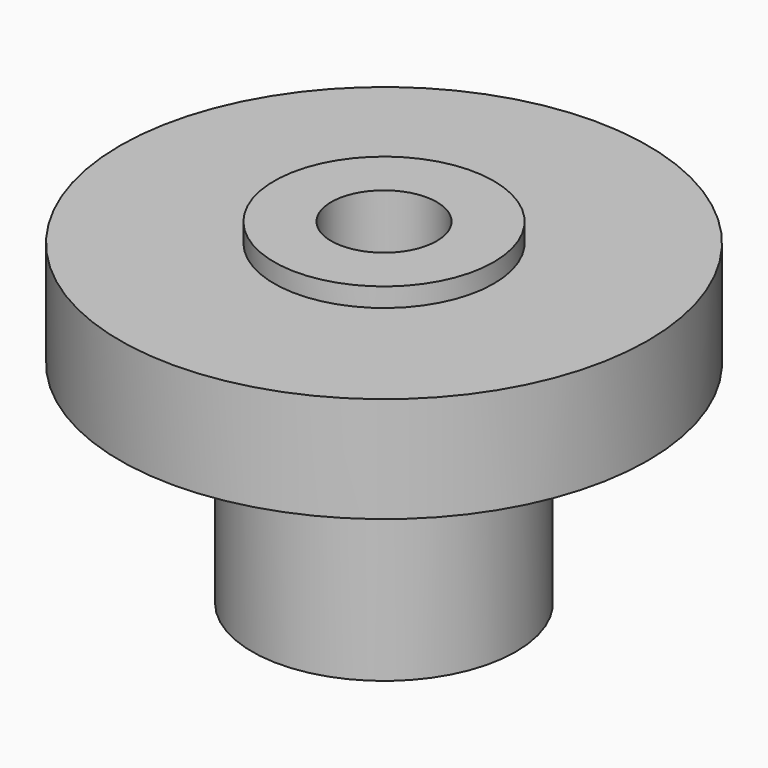
from build123d import *

# Parameters (mm, degrees)
SKETCH019_R   = 6.25
PAD007_DEPTH  = 10
SKETCH020_R   = 12.5
PAD008_DEPTH  = 5
SKETCH021_R   = 5.2
PAD009_DEPTH  = 0.9
SKETCH022_R   = 2.5
HOLE006_DEPTH = 25


with BuildPart() as part:
    # Sketch019 → Pad007 (new body)
    with BuildSketch(Plane.XY):
        Circle(SKETCH019_R)
    extrude(amount=PAD007_DEPTH)

    # Sketch020 (on Face3 of Pad007) → Pad008 (join)
    with BuildSketch(Plane.XY.offset(10)):
        Circle(SKETCH020_R)
    extrude(amount=PAD008_DEPTH)

    # Sketch021 (on Face3 of Pad008) → Pad009 (join)
    with BuildSketch(Plane.XY.offset(15)):
        Circle(SKETCH021_R)
    extrude(amount=PAD009_DEPTH)

    # Sketch022 (on Face7 of Pad009) → Hole006 (cut)
    with BuildSketch(Plane.XY.offset(15.9)):
        Circle(SKETCH022_R)
    extrude(amount=-HOLE006_DEPTH, mode=Mode.SUBTRACT)


solid = part.part
